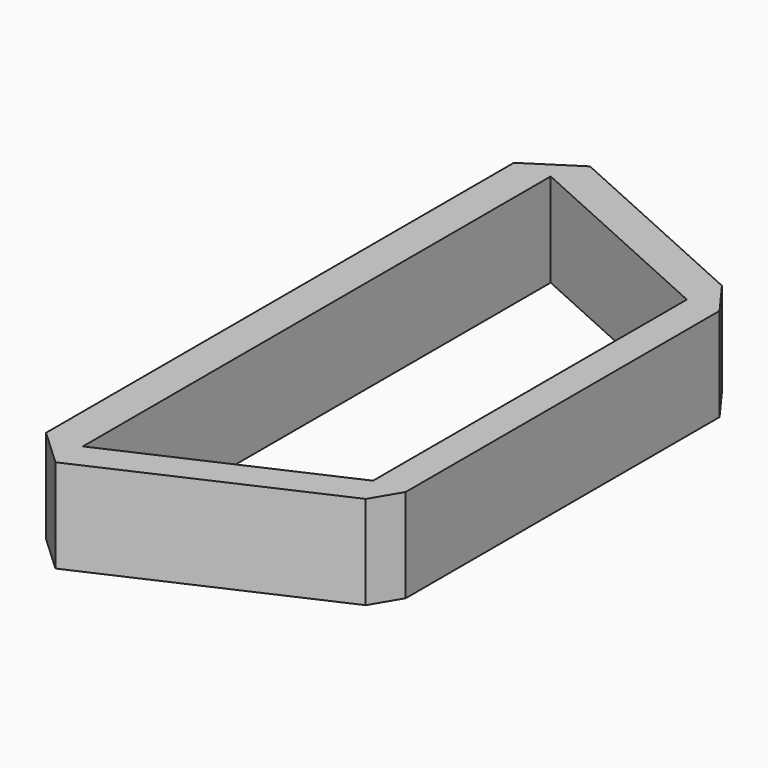
from build123d import *

# Parameters (mm, degrees)
F1_DEPTH = 10.16


with BuildPart() as f1:
    # F0 (on Top) → F1 (new body, symmetric)
    with BuildSketch(Plane.XY):
        Polygon((18.139582, 56.243164), (-26.708071, 76.492655), (-37.614409, 69.445336), (-37.614409, -57.554664), (-29.616961, -65.016977), (19.900086, -42.659173), (23.599582, -36.426205), (23.599582, 48.777979), align=None)
        Polygon((-29.616961, -57.554664), (-29.616961, 69.445336), (16.682325, 48.540407), (16.682325, -36.649735), align=None, mode=Mode.SUBTRACT)
    extrude(amount=F1_DEPTH, both=True)


solid = f1.part
